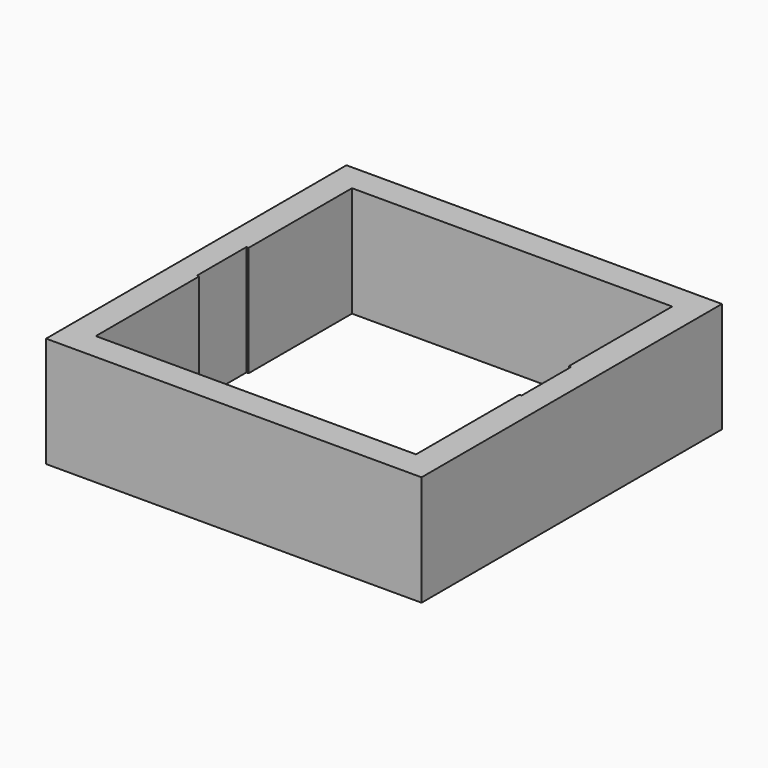
from build123d import *

# Parameters (mm, degrees)
F0_W     = 43.18
F0_H     = 43.18
F0_W_2   = 36.83
F0_H_2   = 36.83
F1_DEPTH = 12.7
F2_W     = 0.508
F2_H     = 7.112
F3_DEPTH = 12.701


with BuildPart() as f1:
    # F0 (on Top) → F1 (new body)
    with BuildSketch(Plane.XY):
        Rectangle(F0_W, F0_H)
        Rectangle(F0_W_2, F0_H_2, mode=Mode.SUBTRACT)
    extrude(amount=F1_DEPTH)

    # F2 (on face) → F3 (cut, through all)
    with BuildSketch(Plane(origin=(0, 0, 0), x_dir=(1, 0, 0), z_dir=(0, 0, -1))):
        with Locations((18.415, 0)):
            Rectangle(F2_W, F2_H)
        with Locations((-18.415, 0)):
            Rectangle(F2_W, F2_H)
    extrude(amount=-F3_DEPTH, mode=Mode.SUBTRACT)


solid = f1.part
